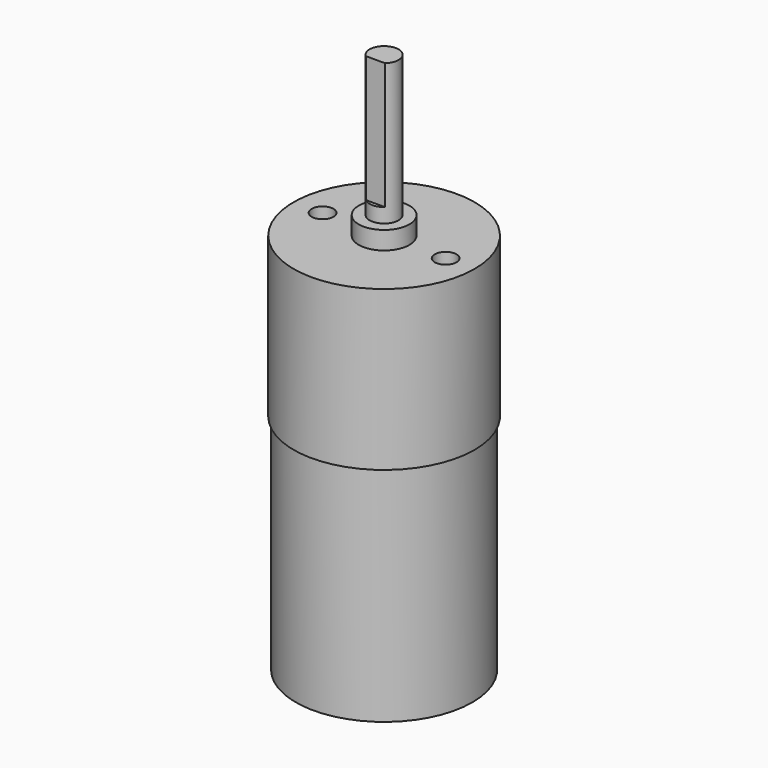
from build123d import *

# Parameters (mm, degrees)
F0_R      = 12.5
F1_DEPTH  = 22
F2_R      = 12.2
F3_DEPTH  = 30.8
F4_R      = 3.5
F5_DEPTH  = 2.5
F6_R      = 2
F7_DEPTH  = 22
F9_DEPTH  = 17.5
F10_R     = 1.5
F11_DEPTH = 4


with BuildPart() as f1:
    # F0 (on Top) → F1 (new body)
    with BuildSketch(Plane.XY):
        Circle(F0_R)
    extrude(amount=-F1_DEPTH)

    # F2 (on face) → F3 (join)
    with BuildSketch(Plane(origin=(0, 0, -22), x_dir=(1, 0, 0), z_dir=(0, 0, -1))):
        Circle(F2_R)
    extrude(amount=F3_DEPTH)

    # F4 (on face) → F5 (join)
    with BuildSketch(Plane.XY):
        Circle(F4_R)
    extrude(amount=F5_DEPTH)

    # F6 (on face) → F7 (join)
    with BuildSketch(Plane.XY):
        Circle(F6_R)
    extrude(amount=F7_DEPTH)

    # F8 (on face) → F9 (cut)
    with BuildSketch(Plane.XY.offset(22)):
        with BuildLine():
            Line((1.322876, -1.5), (-1.322876, -1.5))
            ThreePointArc((-1.322876, -1.5), (0, -2), (1.322876, -1.5))
        make_face()
    extrude(amount=-F9_DEPTH, mode=Mode.SUBTRACT)

    # F10 (on face) → F11 (cut)
    with BuildSketch(Plane.XY):
        with Locations((-8.5, 0)):
            Circle(F10_R)
        with Locations((8.5, 0)):
            Circle(F10_R)
    extrude(amount=-F11_DEPTH, mode=Mode.SUBTRACT)


solid = f1.part
